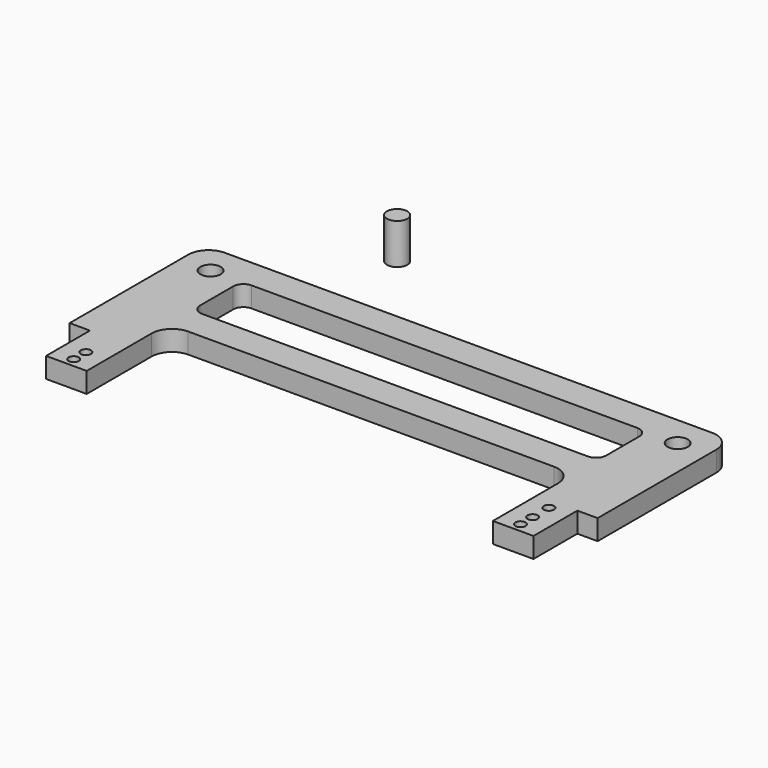
from build123d import *

# Parameters (mm, degrees)
F0_R     = 1.5875
F0_R_2   = 3.175
F1_DEPTH = 6.35
F2_R     = 3.175
F3_DEPTH = 12.7


with BuildPart() as f1:
    # F0 (on Top) → F1 (new body)
    with BuildSketch(Plane.XY):
        with BuildLine():
            Line((-73.831781, 32.55318), (-73.831781, -13.80182))
            Line((-73.831781, -13.80182), (-67.481781, -13.80182))
            Line((-67.481781, -13.80182), (-67.481781, -30.94682))
            Line((-67.481781, -30.94682), (-54.781781, -30.94682))
            Line((-54.781781, -30.94682), (-54.781781, -5.54682))
            ThreePointArc((-54.781781, -5.54682), (-52.921909, -1.056692), (-48.431781, 0.80318))
            Line((-48.431781, 0.80318), (65.868219, 0.80318))
            ThreePointArc((65.868219, 0.80318), (70.358347, -1.056692), (72.218219, -5.54682))
            Line((72.218219, -5.54682), (72.218219, -13.80182))
            Line((72.218219, -13.80182), (72.218219, -20.15182))
            Line((72.218219, -20.15182), (72.218219, -30.94682))
            Line((72.218219, -30.94682), (84.918219, -30.94682))
            Line((84.918219, -30.94682), (84.918219, -13.80182))
            Line((84.918219, -13.80182), (91.268219, -13.80182))
            Line((91.268219, -13.80182), (91.268219, 32.55318))
            ThreePointArc((91.268219, 32.55318), (89.408347, 37.043308), (84.918219, 38.90318))
            Line((84.918219, 38.90318), (8.718219, 38.90318))
            Line((8.718219, 38.90318), (-67.481781, 38.90318))
            ThreePointArc((-67.481781, 38.90318), (-71.971909, 37.043308), (-73.831781, 32.55318))
        make_face()
        with Locations((-61.131781, -28.08932)):
            Circle(F0_R, mode=Mode.SUBTRACT)
        with Locations((-61.131781, -23.32682)):
            Circle(F0_R, mode=Mode.SUBTRACT)
        with Locations((78.568219, -28.08932)):
            Circle(F0_R, mode=Mode.SUBTRACT)
        with Locations((78.568219, -23.32682)):
            Circle(F0_R, mode=Mode.SUBTRACT)
        with Locations((78.568219, -16.97682)):
            Circle(F0_R, mode=Mode.SUBTRACT)
        with BuildLine():
            ThreePointArc((-54.781781, 26.33018), (-53.851845, 28.575244), (-51.606781, 29.50518))
            Line((-51.606781, 29.50518), (69.043219, 29.50518))
            ThreePointArc((69.043219, 29.50518), (71.288283, 28.575244), (72.218219, 26.33018))
            Line((72.218219, 26.33018), (72.218219, 13.37618))
            ThreePointArc((72.218219, 13.37618), (71.288283, 11.131116), (69.043219, 10.20118))
            Line((69.043219, 10.20118), (-51.606781, 10.20118))
            ThreePointArc((-51.606781, 10.20118), (-53.851845, 11.131116), (-54.781781, 13.37618))
            Line((-54.781781, 13.37618), (-54.781781, 26.33018))
        make_face(mode=Mode.SUBTRACT)
        with Locations((-64.306781, 29.37818)):
            Circle(F0_R_2, mode=Mode.SUBTRACT)
        with Locations((81.743219, 29.37818)):
            Circle(F0_R_2, mode=Mode.SUBTRACT)
    extrude(amount=F1_DEPTH)


with BuildPart() as f3:
    # F2 (on Top) → F3 (new body)
    with BuildSketch(Plane.XY):
        with Locations((-39.478254, 71.260065)):
            Circle(F2_R)
    extrude(amount=F3_DEPTH)


solid = Compound([f1.part, f3.part])
